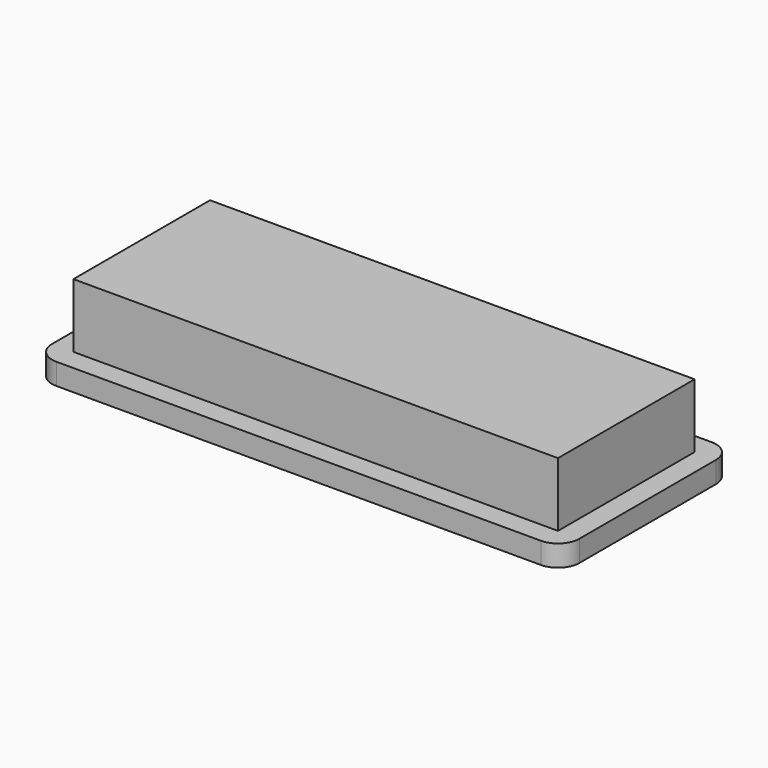
from build123d import *

# Parameters (mm, degrees)
F0_W     = 115.316
F0_H     = 40.64
F1_DEPTH = 10.16
F2_W     = 125.476
F2_H     = 50.8
F2_W_2   = 115.316
F2_H_2   = 40.64
F3_DEPTH = 5.08
F4_R     = 5.08


with BuildPart() as f1:
    # F0 (on Top) → F1 (new body, symmetric)
    with BuildSketch(Plane.XY):
        with Locations((-0.381, 0.635)):
            Rectangle(F0_W, F0_H)
    extrude(amount=F1_DEPTH, both=True)

    # F2 (on face) → F3 (join)
    with BuildSketch(Plane(origin=(0, 0, -10.16), x_dir=(1, 0, 0), z_dir=(0, 0, -1))):
        with Locations((-0.381, -0.635)):
            Rectangle(F2_W, F2_H)
        with Locations((-0.381, -0.635)):
            Rectangle(F2_W_2, F2_H_2, mode=Mode.SUBTRACT)
    extrude(amount=-F3_DEPTH)

    # F4
    f4_edges = [f1.edges().sort_by_distance(p)[0] for p in [
        (-63.119, -24.765, -7.62),
        (62.357, -24.765, -7.62),
        (-63.119, 26.035, -7.62),
        (62.357, 26.035, -7.62),
    ]]
    fillet(f4_edges, radius=F4_R)


solid = f1.part
